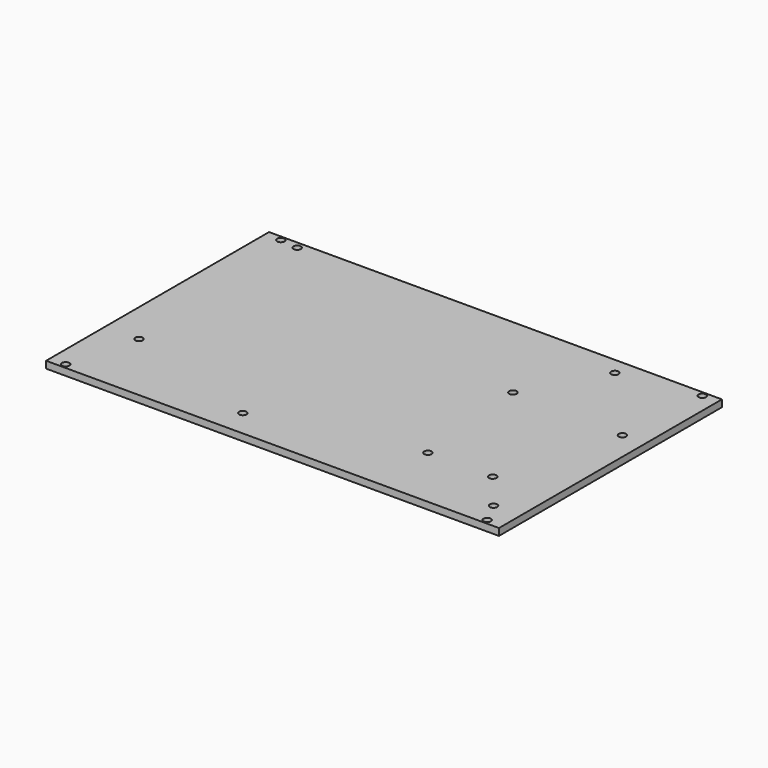
from build123d import *

# Parameters (mm, degrees)
SKETCH_W        = 195
SKETCH_H        = 120
PAD_DEPTH       = 3
SKETCH001_R     = 1.6
POCKET_DEPTH    = 5
SKETCH002_R     = 1.6
POCKET001_DEPTH = 5


with BuildPart() as part:
    # Sketch → Pad (new body)
    with BuildSketch(Plane.XY):
        Rectangle(SKETCH_W, SKETCH_H)
    extrude(amount=PAD_DEPTH)

    # Sketch001 → Pocket (cut)
    with BuildSketch(Plane.XY.offset(3)):
        with Locations((-90.75, 57.9)):
            Circle(SKETCH001_R)
        with Locations((90.75, 57.9)):
            Circle(SKETCH001_R)
        with Locations((-90.75, -57.9)):
            Circle(SKETCH001_R)
        with Locations((90.75, -57.9)):
            Circle(SKETCH001_R)
    extrude(amount=-POCKET_DEPTH, mode=Mode.SUBTRACT)

    # Sketch002 → Pocket001 (cut)
    with BuildSketch(Plane.XY.offset(3)):
        with Locations((-83, 57)):
            Circle(SKETCH002_R)
        with Locations((57.355, 52.555)):
            Circle(SKETCH002_R)
        with Locations((-83, -28.123)):
            Circle(SKETCH002_R)
        with Locations((-22.04, -48.443)):
            Circle(SKETCH002_R)
        with Locations((85.91, -48.443)):
            Circle(SKETCH002_R)
        with Locations((39.5, 20)):
            Circle(SKETCH002_R)
        with Locations((44.6, -32.1)):
            Circle(SKETCH002_R)
        with Locations((72.5, -32.1)):
            Circle(SKETCH002_R)
        with Locations((87.7, 18.7)):
            Circle(SKETCH002_R)
    extrude(amount=-POCKET001_DEPTH, mode=Mode.SUBTRACT)


solid = part.part
